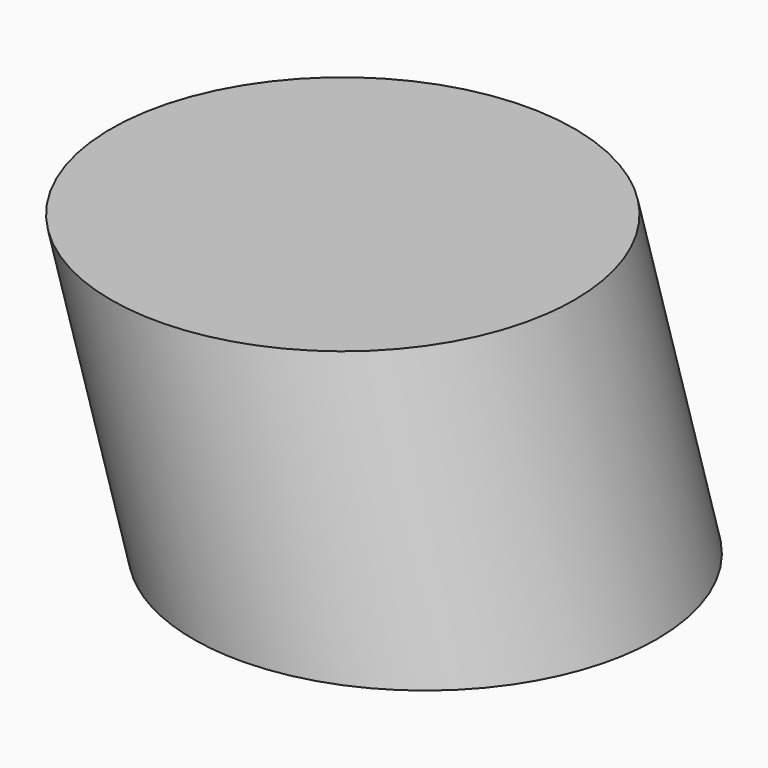
from build123d import *

# Parameters (mm, degrees)
F1_R = 2.1649441391
F3_T = -2.54


with BuildPart() as f2:
    # F2: sweep along a path in F0
    with BuildLine(Plane.XZ) as f2_path:
        add(Plane.XZ * Edge.make_bspline(
            [(-76.2501358986, 0), (-67.2025301728, -29.8847739774), (-45.4098623848, -101.8672377306), (7.5796683015, 149.5018159685), (18.7781407723, -118.234739413), (88.1812167671, 12.9170676407), (69.8402291187, -0.5381052408), (64.2185509205, -4.6622371301)],
            knots=[0, 0, 0, 0, 0.1877743191, 0.4522857736, 0.7134578179, 0.9121722358, 1, 1, 1, 1], degree=3))
    # F1 (on Top) → F2 (sweep)
    with BuildSketch(Plane.XY):
        with Locations((-76.2633830309, 0)):
            Circle(F1_R)
    sweep(path=f2_path.line)

    # F3
    f3_openings = [f2.faces().sort_by_distance(p)[0] for p in [
        (3.600327, 0, 44.750701),
        (64.214146, 0, -4.649744),
    ]]
    offset(amount=F3_T, openings=f3_openings)


solid = f2.part
